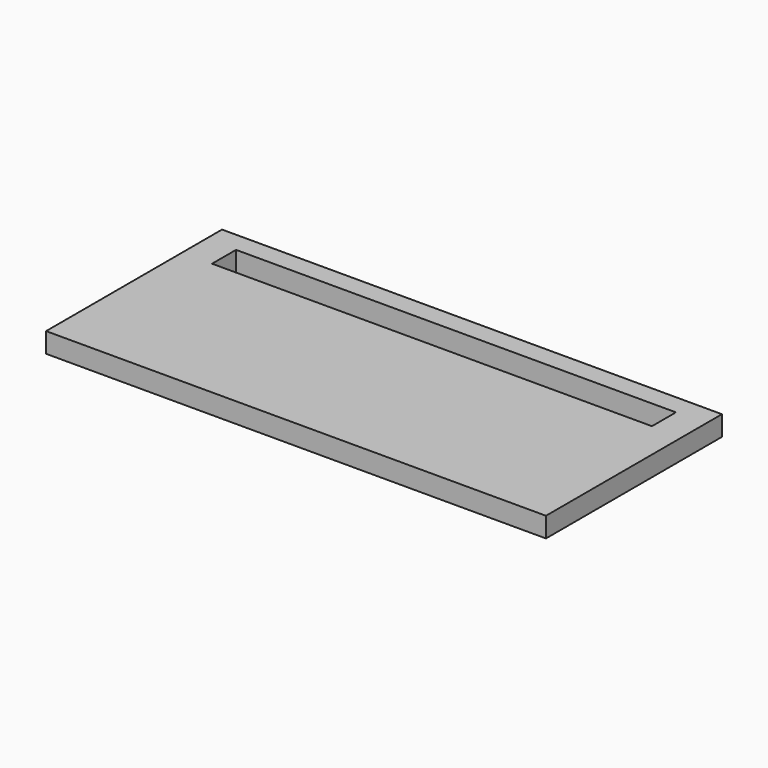
from build123d import *

# Parameters (mm, degrees)
BOX145_W     = 22
BOX145_H     = 1.5
BOX145_DEPTH = 2
BOX143_W     = 25
BOX143_H     = 11
BOX143_DEPTH = 1


with BuildPart() as longledhole009:
    # Box145 → Box145 (new body)
    with BuildSketch(Plane(origin=(1.5, 8.5, 0), x_dir=(1, 0, 0), z_dir=(0, 0, 1))):
        with Locations((11, 0.75)):
            Rectangle(BOX145_W, BOX145_H)
    extrude(amount=BOX145_DEPTH)


with BuildPart() as cut026:
    # Box143 → Box143 (new body)
    with BuildSketch(Plane.XY):
        with Locations((12.5, 5.5)):
            Rectangle(BOX143_W, BOX143_H)
    extrude(amount=BOX143_DEPTH)

    # Cut026: cut LongLedHole009
    add(longledhole009.part, mode=Mode.SUBTRACT)


solid = cut026.part
